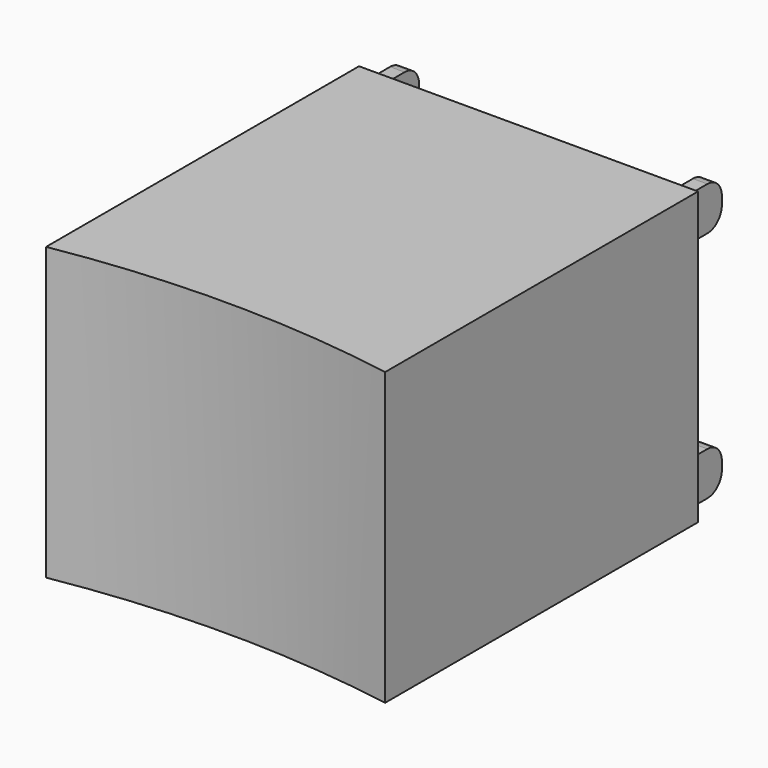
from build123d import *

# Parameters (mm, degrees)
F1_DEPTH = 510.54
F2_W     = 25.4
F2_H     = 76.2
F3_DEPTH = 76.2
F4_R     = 31.75


with BuildPart() as f1:
    # F0 (on Top) → F1 (new body)
    with BuildSketch(Plane.XY):
        with BuildLine():
            Line((297.18, 685.8), (-297.18, 685.8))
            Line((-297.18, 685.8), (-297.18, 0))
            ThreePointArc((-297.18, 0), (0, 25.4), (297.18, 0))
            Line((297.18, 0), (297.18, 685.8))
        make_face()
    extrude(amount=F1_DEPTH)

    # F2 (on face) → F3 (join)
    with BuildSketch(Plane(origin=(0, 685.8, 0), x_dir=(-1, 0, 0), z_dir=(0, 1, 0))):
        with Locations((-265.43, 459.74)):
            Rectangle(F2_W, F2_H)
        with Locations((265.43, 459.74)):
            Rectangle(F2_W, F2_H)
        with Locations((-265.43, 50.8)):
            Rectangle(F2_W, F2_H)
        with Locations((265.43, 50.8)):
            Rectangle(F2_W, F2_H)
    extrude(amount=F3_DEPTH)

    # F4
    f4_edges = [f1.edges().sort_by_distance(p)[0] for p in [
        (265.43, 762, 497.84),
        (265.43, 762, 421.64),
        (265.43, 762, 88.9),
        (-265.43, 762, 12.7),
        (-265.43, 762, 88.9),
        (-265.43, 762, 421.64),
        (-265.43, 762, 497.84),
        (265.43, 762, 12.7),
    ]]
    fillet(f4_edges, radius=F4_R)


solid = f1.part
